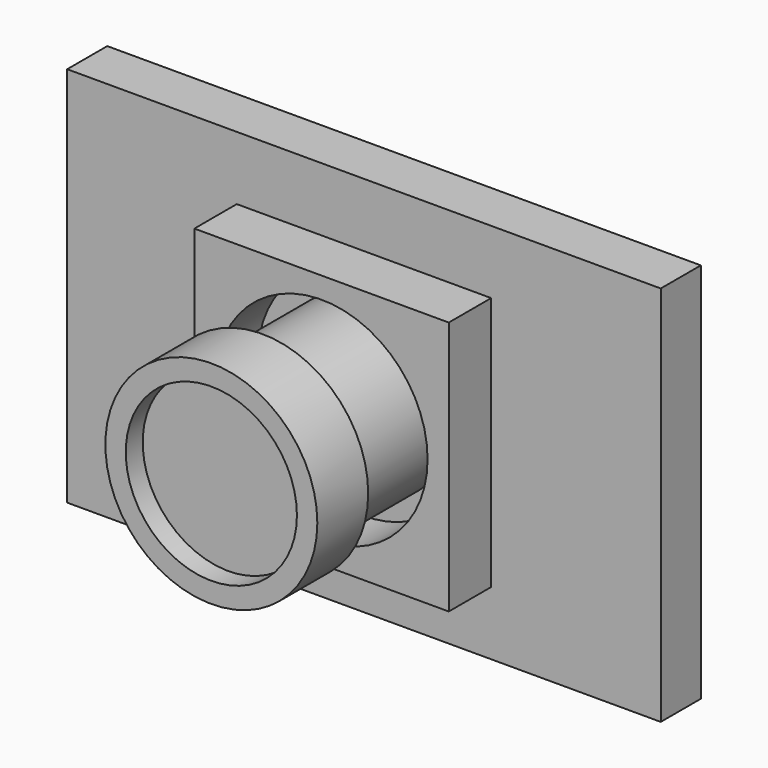
from build123d import *

# Parameters (mm, degrees)
F0_W          = 71.12
F0_H          = 45.72
F0_W_2        = 30.48
F0_H_2        = 30.48
F1_DEPTH      = 6
F0_R          = 12.7
F2_DEPTH      = 6.35
F2_DEPTH_BACK = 6
F0_R_2        = 10.2539326669
F0_R_3        = 6.985
F3_DEPTH      = 20.32
F3_DEPTH_BACK = 6
F4_DEPTH      = 15.24
F5_DEPTH      = 22.86
F6_DEPTH      = 15.24
F7_DEPTH      = 6


with BuildPart() as f1:
    # F0 (on Front) → F1 (new body)
    with BuildSketch(Plane.XZ):
        Rectangle(F0_W, F0_H)
        Rectangle(F0_W_2, F0_H_2, mode=Mode.SUBTRACT)
    extrude(amount=-F1_DEPTH)

    # F0 (on Front) → F4 (cut)
    with BuildSketch(Plane.XZ):
        Circle(F0_R)
        Circle(F0_R_2, mode=Mode.SUBTRACT)
    extrude(amount=F4_DEPTH, mode=Mode.SUBTRACT)


with BuildPart() as f2:
    # F0 (on Front) → F2 (new body, two sides)
    with BuildSketch(Plane.XZ) as f2_sk:
        Rectangle(F0_W_2, F0_H_2)
        Circle(F0_R, mode=Mode.SUBTRACT)
        Rectangle(F0_W_2, F0_H_2)
        Circle(F0_R, mode=Mode.SUBTRACT)
        Rectangle(F0_W_2, F0_H_2)
        Circle(F0_R, mode=Mode.SUBTRACT)
    extrude(amount=F2_DEPTH)
    extrude(f2_sk.sketch, amount=-F2_DEPTH_BACK)


with BuildPart() as f3:
    # F0 (on Front) → F3 (new body, two sides)
    with BuildSketch(Plane.XZ) as f3_sk:
        Circle(F0_R_2)
        Circle(F0_R_3, mode=Mode.SUBTRACT)
        Circle(F0_R_3)
    extrude(amount=F3_DEPTH)
    extrude(f3_sk.sketch, amount=-F3_DEPTH_BACK)


with BuildPart() as f5:
    # F0 (on Front) → F5 (new body)
    with BuildSketch(Plane.XZ):
        Circle(F0_R)
        Circle(F0_R_2, mode=Mode.SUBTRACT)
    extrude(amount=F5_DEPTH)

    # F0 (on Front) → F6 (cut)
    with BuildSketch(Plane.XZ):
        Circle(F0_R)
        Circle(F0_R_2, mode=Mode.SUBTRACT)
    extrude(amount=F6_DEPTH, mode=Mode.SUBTRACT)


with BuildPart() as f7:
    # F0 (on Front) → F7 (new body, through all)
    with BuildSketch(Plane.XZ):
        Circle(F0_R)
        Circle(F0_R_2, mode=Mode.SUBTRACT)
    extrude(amount=-F7_DEPTH)


solid = Compound([f1.part, f2.part, f3.part, f5.part, f7.part])
